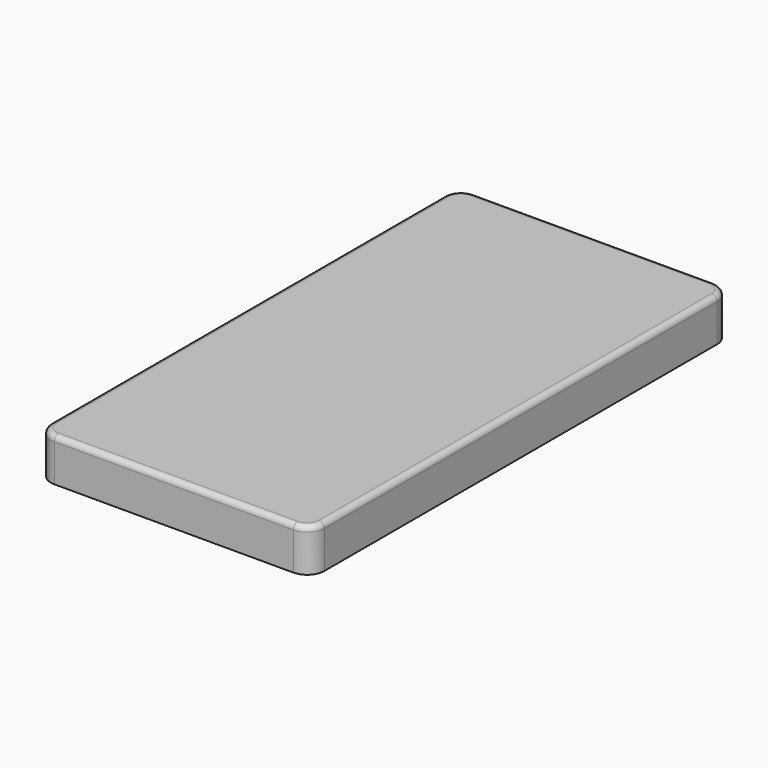
from build123d import *

# Parameters (mm, degrees)
F0_W     = 80.9625
F0_H     = 155.575
F1_DEPTH = 6.35
F2_R     = 5.08
F3_R     = 1.5875


with BuildPart() as f1:
    # F0 (on Top) → F1 (new body, symmetric)
    with BuildSketch(Plane.XY):
        Rectangle(F0_W, F0_H)
    extrude(amount=F1_DEPTH, both=True)

    # F2
    f2_edges = [f1.edges().sort_by_distance(p)[0] for p in [
        (40.48125, -77.7875, 0),
        (-40.48125, -77.7875, 0),
        (40.48125, 77.7875, 0),
        (-40.48125, 77.7875, 0),
    ]]
    fillet(f2_edges, radius=F2_R)

    # F3
    f3_edges = [f1.edges().sort_by_distance(p)[0] for p in [
        (0, 77.7875, 6.35),
    ]]
    fillet(f3_edges, radius=F3_R)


solid = f1.part
